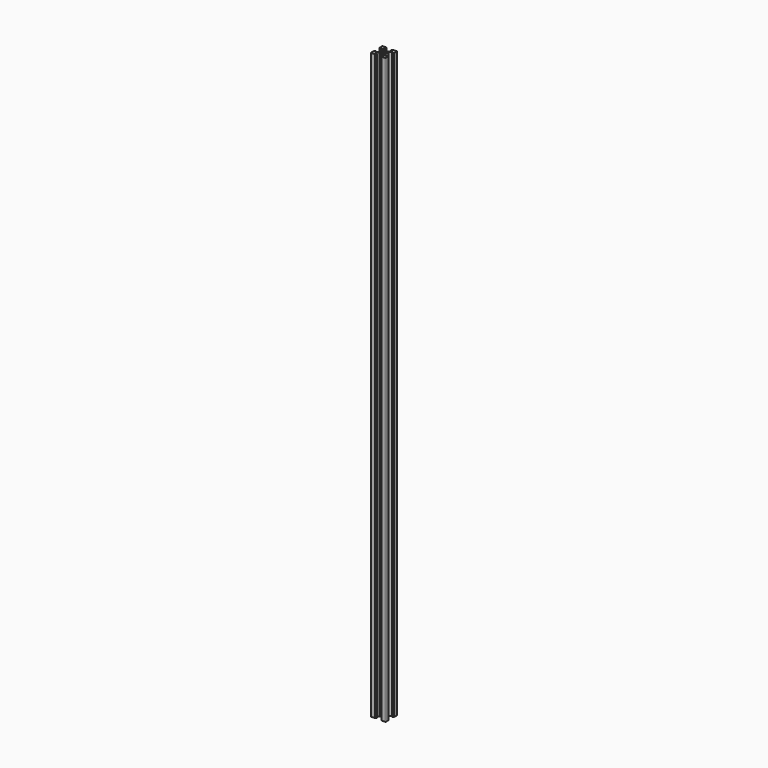
from build123d import *

# Parameters (mm, degrees)
SKETCH_R  = 2.1
PAD_DEPTH = 800


with BuildPart() as part:
    # Sketch → Pad (new body)
    with BuildSketch(Plane.XY):
        with BuildLine():
            Line((-10, 4.58), (-10, 9.5))
            ThreePointArc((-9.5, 10), (-9.853553, 9.853553), (-10, 9.5))
            Line((-9.5, 10), (-4.58, 10))
            Line((-4.58, 10), (-3.125, 8.545))
            Line((-3.125, 8.545), (-3.125, 8.2))
            Line((-5.5, 8.2), (-3.125, 8.2))
            Line((-5.5, 8.2), (-5.5, 6.56066))
            Line((-5.5, 6.56066), (-2.83934, 3.9))
            Line((-0.125, 3.9), (-2.83934, 3.9))
            ThreePointArc((-0.125, 3.9), (0, 3.775), (0.125, 3.9))
            Line((0.125, 3.9), (2.83934, 3.9))
            Line((2.83934, 3.9), (5.5, 6.56066))
            Line((5.5, 6.56066), (5.5, 8.2))
            Line((5.5, 8.2), (3.125, 8.2))
            Line((3.125, 8.2), (3.125, 8.545))
            Line((3.125, 8.545), (4.58, 10))
            Line((4.58, 10), (9.5, 10))
            ThreePointArc((10, 9.5), (9.853553, 9.853553), (9.5, 10))
            Line((10, 9.5), (10, 4.58))
            Line((10, 4.58), (8.545, 3.125))
            Line((8.545, 3.125), (8.2, 3.125))
            Line((8.2, 3.125), (8.2, 5.5))
            Line((8.2, 5.5), (6.56066, 5.5))
            Line((6.56066, 5.5), (3.9, 2.83934))
            Line((3.9, 2.83934), (3.9, 0.125))
            ThreePointArc((3.9, 0.125), (3.775, 0), (3.9, -0.125))
            Line((3.9, -0.125), (3.9, -2.83934))
            Line((3.9, -2.83934), (6.56066, -5.5))
            Line((6.56066, -5.5), (8.2, -5.5))
            Line((8.2, -5.5), (8.2, -3.125))
            Line((8.2, -3.125), (8.545, -3.125))
            Line((8.545, -3.125), (10, -4.58))
            Line((10, -4.58), (10, -9.5))
            ThreePointArc((9.5, -10), (9.853553, -9.853553), (10, -9.5))
            Line((9.5, -10), (4.58, -10))
            Line((4.58, -10), (3.125, -8.545))
            Line((3.125, -8.545), (3.125, -8.2))
            Line((3.125, -8.2), (5.5, -8.2))
            Line((5.5, -8.2), (5.5, -6.56066))
            Line((2.83934, -3.9), (5.5, -6.56066))
            Line((0.125, -3.9), (2.83934, -3.9))
            ThreePointArc((0.125, -3.9), (0, -3.775), (-0.125, -3.9))
            Line((-0.125, -3.9), (-2.83934, -3.9))
            Line((-2.83934, -3.9), (-5.5, -6.56066))
            Line((-5.5, -6.56066), (-5.5, -8.2))
            Line((-5.5, -8.2), (-3.125, -8.2))
            Line((-3.125, -8.545), (-3.125, -8.2))
            Line((-4.58, -10), (-3.125, -8.545))
            Line((-9.5, -10), (-4.58, -10))
            ThreePointArc((-10, -9.5), (-9.853553, -9.853553), (-9.5, -10))
            Line((-10, -4.58), (-10, -9.5))
            Line((-8.545, -3.125), (-10, -4.58))
            Line((-8.2, -3.125), (-8.545, -3.125))
            Line((-8.2, -5.5), (-8.2, -3.125))
            Line((-6.56066, -5.5), (-8.2, -5.5))
            Line((-3.9, -2.83934), (-6.56066, -5.5))
            Line((-3.9, -0.125), (-3.9, -2.83934))
            ThreePointArc((-3.9, -0.125), (-3.775, 0), (-3.9, 0.125))
            Line((-3.9, 2.83934), (-3.9, 0.125))
            Line((-6.56066, 5.5), (-3.9, 2.83934))
            Line((-8.2, 5.5), (-6.56066, 5.5))
            Line((-8.2, 5.5), (-8.2, 3.125))
            Line((-8.545, 3.125), (-8.2, 3.125))
            Line((-10, 4.58), (-8.545, 3.125))
        make_face()
        Circle(SKETCH_R, mode=Mode.SUBTRACT)
    extrude(amount=PAD_DEPTH)


solid = part.part
